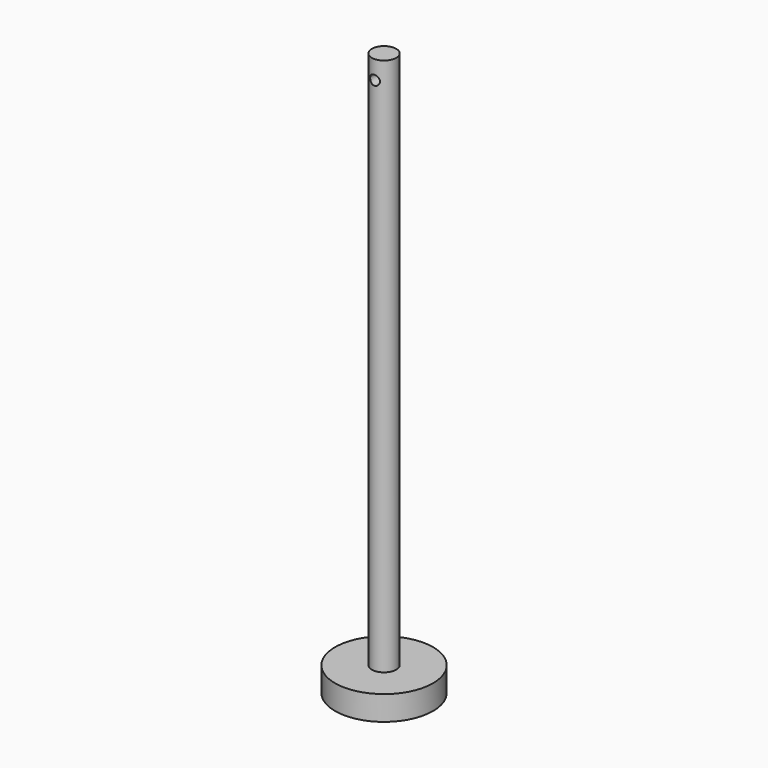
from build123d import *

# Parameters (mm, degrees)
F0_R     = 2.5
F1_DEPTH = 115
F0_R_2   = 10
F2_DEPTH = 5
F3_R     = 1
F4_DEPTH = 5


with BuildPart() as f1:
    # F0 (on Top) → F1 (new body)
    with BuildSketch(Plane.XY):
        Circle(F0_R)
    extrude(amount=F1_DEPTH)

    # F0 (on Top) → F2 (join)
    with BuildSketch(Plane.XY):
        Circle(F0_R_2)
        Circle(F0_R, mode=Mode.SUBTRACT)
    extrude(amount=F2_DEPTH)

    # F3 (on Front) → F4 (cut, symmetric)
    with BuildSketch(Plane.XZ):
        with Locations((0, 111.190595)):
            Circle(F3_R)
    extrude(amount=F4_DEPTH, both=True, mode=Mode.SUBTRACT)


solid = f1.part
